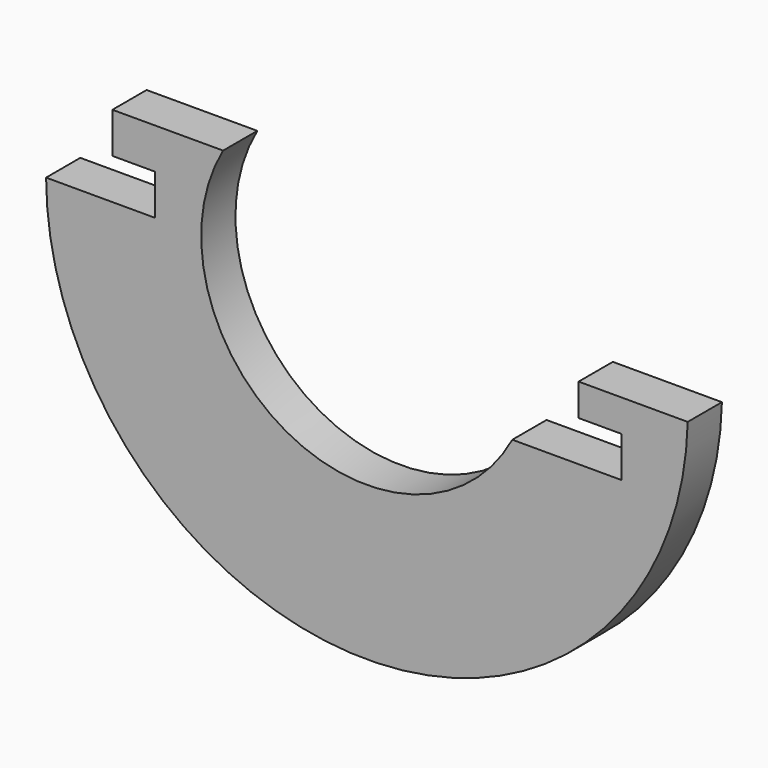
from build123d import *

# Parameters (mm, degrees)
F1_DEPTH = 2


with BuildPart() as f1:
    # F0 (on Front) → F1 (new body)
    with BuildSketch(Plane.XZ):
        with BuildLine():
            Line((-9.898934, 0), (-14.998934, 0))
            ThreePointArc((-14.998934, 0), (-0.149018, -14.953076), (14.997, -0.3))
            Line((14.997, -0.3), (9.897, -0.3))
            Line((9.897, -0.3), (9.897, -1.8))
            Line((9.897, -1.8), (11.897, -1.8))
            Line((11.897, -1.8), (11.897, -3.7))
            Line((11.897, -3.7), (6.797, -3.7))
            ThreePointArc((6.797, -3.7), (-3.766304, -6.802364), (-6.723454, 3.802508))
            Line((-6.723454, 3.802508), (-11.898934, 3.8))
            Line((-11.898934, 3.8), (-11.898934, 1.9))
            Line((-11.898934, 1.9), (-9.898934, 1.9))
            Line((-9.898934, 1.9), (-9.898934, 0))
        make_face()
    extrude(amount=F1_DEPTH)


solid = f1.part
